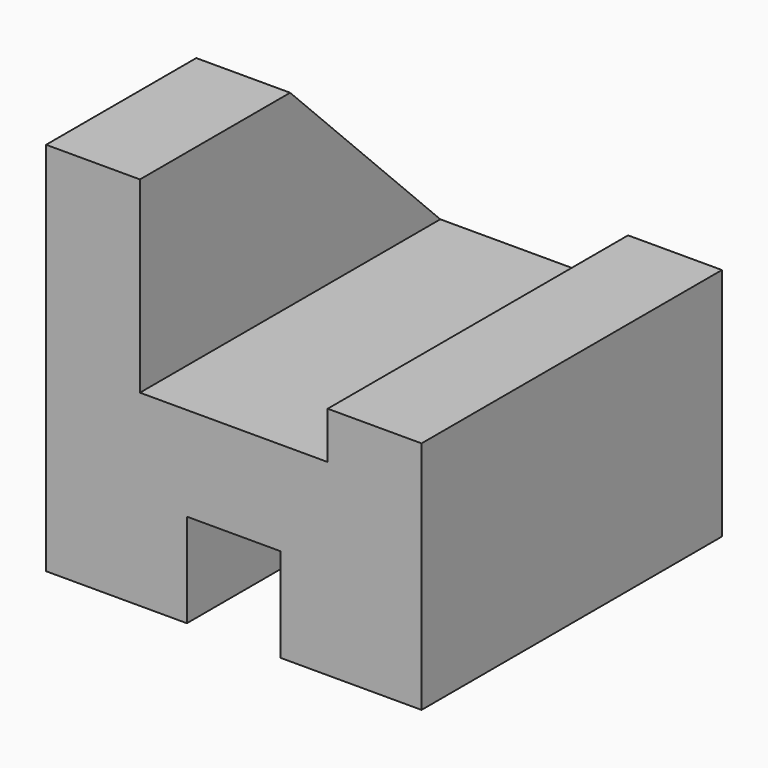
from build123d import *

# Parameters (mm, degrees)
F0_W     = 101.6
F0_H     = 101.6
F1_DEPTH = 101.6
F2_W     = 12.7
F2_H     = 25.4
F3_DEPTH = 101.6
F4_W     = 50.8
F4_H     = 12.7
F5_DEPTH = 425.958
F7_DEPTH = 52.07


with BuildPart() as f1:
    # F0 (on Top) → F1 (new body)
    with BuildSketch(Plane.XY):
        Rectangle(F0_W, F0_H)
    extrude(amount=F1_DEPTH)

    # F2 (on face) → F3 (cut)
    with BuildSketch(Plane.XZ.offset(50.8)):
        with Locations((-6.35, 12.7)):
            Rectangle(F2_W, F2_H)
        with Locations((6.35, 12.7)):
            Rectangle(F2_W, F2_H)
    extrude(amount=-F3_DEPTH, mode=Mode.SUBTRACT)

    # F4 (on face) → F5 (cut)
    with BuildSketch(Plane(origin=(0, 50.8, 0), x_dir=(-1, 0, 0), z_dir=(0, 1, 0))):
        Polygon((25.4, 101.6), (-50.8, 101.6), (-50.8, 63.5), (-25.4, 63.5), (25.4, 63.5), align=None)
        with Locations((0, 57.15)):
            Rectangle(F4_W, F4_H)
    extrude(amount=-F5_DEPTH, mode=Mode.SUBTRACT)

    # F6 (on face) → F7 (cut)
    with BuildSketch(Plane(origin=(-50.8, 0, 0), x_dir=(0, -1, 0), z_dir=(-1, 0, 0))):
        Polygon((-50.8, 50.8), (0, 101.6), (-50.8, 101.6), align=None)
    extrude(amount=-F7_DEPTH, mode=Mode.SUBTRACT)


solid = f1.part
